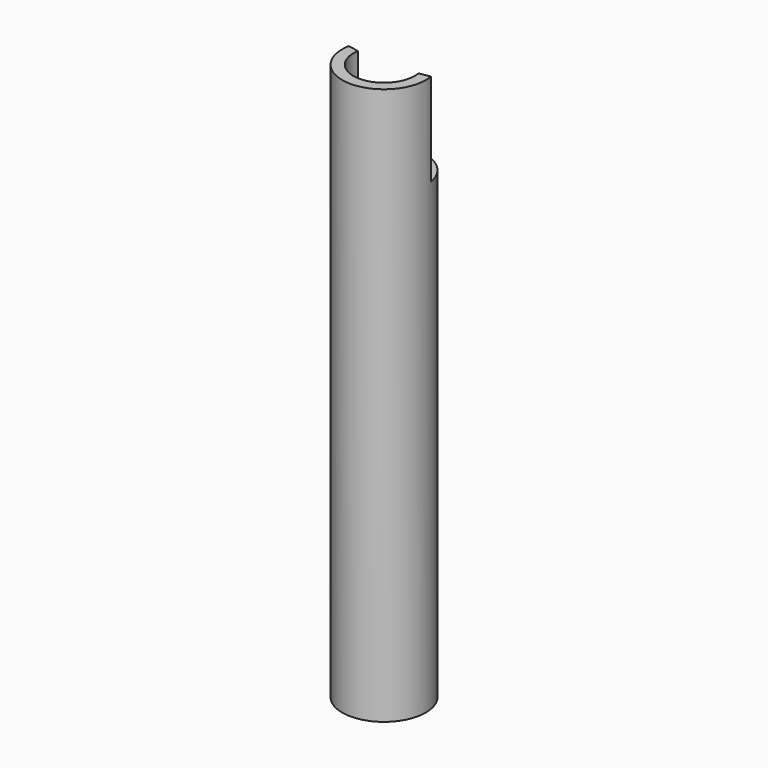
from build123d import *

# Parameters (mm, degrees)
SKETCH_R     = 11.25
SKETCH_R_2   = 8.25
PAD_DEPTH    = 50
SKETCH001_R  = 11.25
PAD001_DEPTH = 100
POCKET_DEPTH = 25


with BuildPart() as part:
    # Sketch → Pad (new body)
    with BuildSketch(Plane.XY):
        Circle(SKETCH_R)
        Circle(SKETCH_R_2, mode=Mode.SUBTRACT)
    extrude(amount=PAD_DEPTH)

    # Sketch001 (on Face3 of Pad) → Pad001 (join)
    with BuildSketch(Plane(origin=(0, 0, 0), x_dir=(1, 0, 0), z_dir=(0, 0, -1))):
        Circle(SKETCH001_R)
    extrude(amount=PAD001_DEPTH)

    # Sketch002 (on Face3 of Pad001) → Pocket (cut)
    with BuildSketch(Plane.XY.offset(50)):
        with BuildLine():
            ThreePointArc((8.124664, 1.432597), (0, 8.25), (-8.124664, 1.432597))
            Line((-11.079087, 1.953542), (-8.124664, 1.432597))
            ThreePointArc((11.079087, 1.953542), (0, 11.25), (-11.079087, 1.953542))
            Line((11.079087, 1.953542), (8.124664, 1.432597))
        make_face()
    extrude(amount=-POCKET_DEPTH, mode=Mode.SUBTRACT)


solid = part.part
